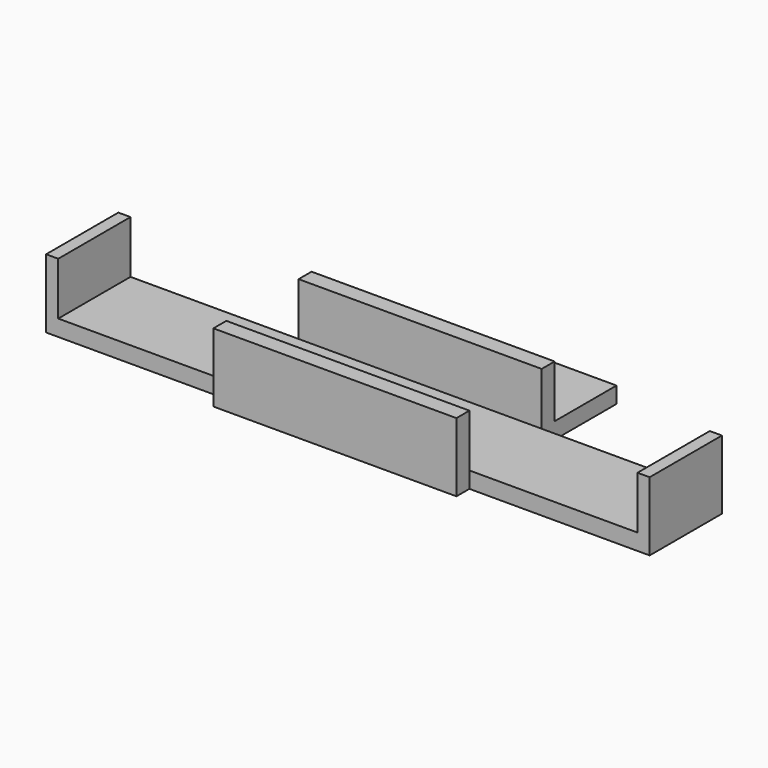
from build123d import *

# Parameters (mm, degrees)
F0_W     = 30
F0_H     = 9.55
F0_H_2   = 2
F0_H_3   = 11.15
F0_W_2   = 1.5
F0_W_3   = 20.75
F1_DEPTH = 2
F2_DEPTH = 8.5
F3_D     = 3.2


with BuildPart() as f1:
    # F0 (on Top) → F1 (new body)
    with BuildSketch(Plane.XY):
        with Locations((0, 17.925)):
            Rectangle(F0_W, F0_H)
        with Locations((0, 12.15)):
            Rectangle(F0_W, F0_H_2)
        with Locations((0, 5.575)):
            Rectangle(F0_W, F0_H_3)
        with Locations((0, -1)):
            Rectangle(F0_W, F0_H_2)
        with Locations((-36.5, 5.575)):
            Rectangle(F0_W_2, F0_H_3)
        with Locations((-25.375, 5.575)):
            Rectangle(F0_W_3, F0_H_3)
        with Locations((25.375, 5.575)):
            Rectangle(F0_W_3, F0_H_3)
        with Locations((36.5, 5.575)):
            Rectangle(F0_W_2, F0_H_3)
    extrude(amount=F1_DEPTH)

    # F0 (on Top) → F2 (join)
    with BuildSketch(Plane.XY):
        with Locations((0, 12.15)):
            Rectangle(F0_W, F0_H_2)
        with Locations((0, -1)):
            Rectangle(F0_W, F0_H_2)
        with Locations((-36.5, 5.575)):
            Rectangle(F0_W_2, F0_H_3)
        with Locations((36.5, 5.575)):
            Rectangle(F0_W_2, F0_H_3)
    extrude(amount=F2_DEPTH)

    # F3 (through all)
    with Locations(Plane(origin=(0, 0, 0), x_dir=(1, 0, 0), z_dir=(0, 0, -1))):
        with Locations((0, -17.7)):
            Hole(F3_D / 2)


solid = f1.part
